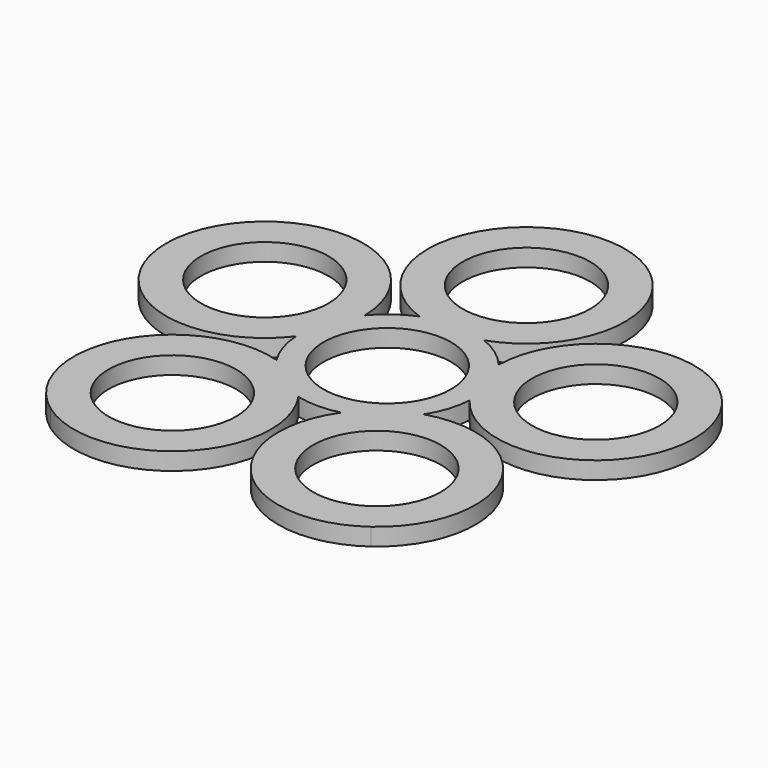
from build123d import *

# Parameters (mm, degrees)
F0_R     = 11
F1_DEPTH = 3


with BuildPart() as f1:
    # F0 (on Top) → F1 (new body)
    with BuildSketch(Plane.XY):
        with BuildLine():
            ThreePointArc((-27.625907, -38.023799), (-5.725919, -36.403446), (-3.695413, -14.537673))
            ThreePointArc((-3.695413, -14.537673), (0, -15), (3.695413, -14.537673))
            ThreePointArc((3.695413, -14.537673), (5.725919, -36.403446), (27.625907, -38.023799))
            ThreePointArc((27.625907, -38.023799), (32.852328, -16.694956), (12.684203, -8.006934))
            ThreePointArc((12.684203, -8.006934), (14.265848, -4.635255), (14.968094, -0.977841))
            ThreePointArc((14.968094, -0.977841), (44.699656, 14.523799), (11.534681, 9.589115))
            ThreePointArc((11.534681, 9.589115), (8.816779, 12.135255), (5.555378, 13.933333))
            ThreePointArc((5.555378, 13.933333), (0, 47), (-5.555378, 13.933333))
            ThreePointArc((-5.555378, 13.933333), (-8.816779, 12.135255), (-11.534681, 9.589115))
            ThreePointArc((-11.534681, 9.589115), (-44.699656, 14.523799), (-14.968094, -0.977841))
            ThreePointArc((-14.968094, -0.977841), (-14.265848, -4.635255), (-12.684203, -8.006934))
            ThreePointArc((-12.684203, -8.006934), (-32.852328, -16.694956), (-27.625907, -38.023799))
        make_face()
        with Locations((-17.633558, -24.27051)):
            Circle(F0_R, mode=Mode.SUBTRACT)
        Circle(F0_R, mode=Mode.SUBTRACT)
        with Locations((17.633558, -24.27051)):
            Circle(F0_R, mode=Mode.SUBTRACT)
        with Locations((-28.531695, 9.27051)):
            Circle(F0_R, mode=Mode.SUBTRACT)
        with Locations((0, 30)):
            Circle(F0_R, mode=Mode.SUBTRACT)
        with Locations((28.531695, 9.27051)):
            Circle(F0_R, mode=Mode.SUBTRACT)
    extrude(amount=F1_DEPTH)


solid = f1.part
